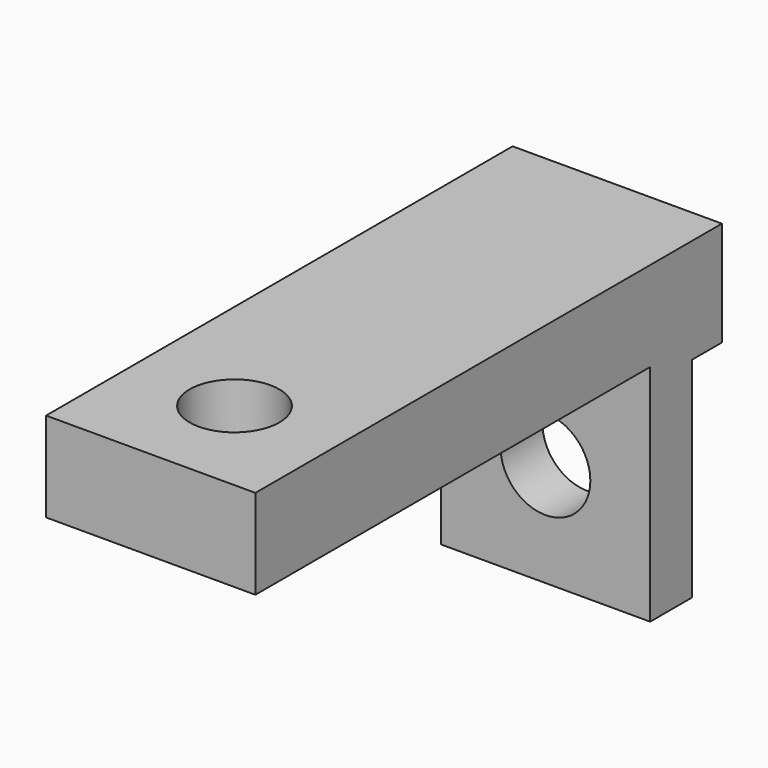
from build123d import *

# Parameters (mm, degrees)
F0_W     = 7
F0_H     = 10.5
F1_DEPTH = 3
F2_W     = 7
F2_H     = 3
F3_DEPTH = 16.5
F4_R     = 1.5
F5_DEPTH = 25
F6_R     = 1.5
F7_DEPTH = 25
F8_W     = 7
F8_H     = 7
F9_DEPTH = 1.25


with BuildPart() as f1:
    # F0 (on Front) → F1 (new body)
    with BuildSketch(Plane.XZ):
        Rectangle(F0_W, F0_H)
    extrude(amount=F1_DEPTH)

    # F2 (on face) → F3 (join)
    with BuildSketch(Plane.XZ.offset(3)):
        with Locations((0, 3.75)):
            Rectangle(F2_W, F2_H)
    extrude(amount=F3_DEPTH)

    # F4 (on face) → F5 (cut)
    with BuildSketch(Plane.XZ.offset(3)):
        with Locations((0, -1.75)):
            Circle(F4_R)
    extrude(amount=-F5_DEPTH, mode=Mode.SUBTRACT)

    # F6 (on face) → F7 (cut)
    with BuildSketch(Plane(origin=(0, 0, 2.25), x_dir=(1, 0, 0), z_dir=(0, 0, -1))):
        with Locations((0, 16)):
            Circle(F6_R)
    extrude(amount=-F7_DEPTH, mode=Mode.SUBTRACT)

    # F8 (on face) → F9 (cut)
    with BuildSketch(Plane(origin=(0, 0, 0), x_dir=(-1, 0, 0), z_dir=(0, 1, 0))):
        with Locations((0, -1.75)):
            Rectangle(F8_W, F8_H)
    extrude(amount=-F9_DEPTH, mode=Mode.SUBTRACT)


solid = f1.part
